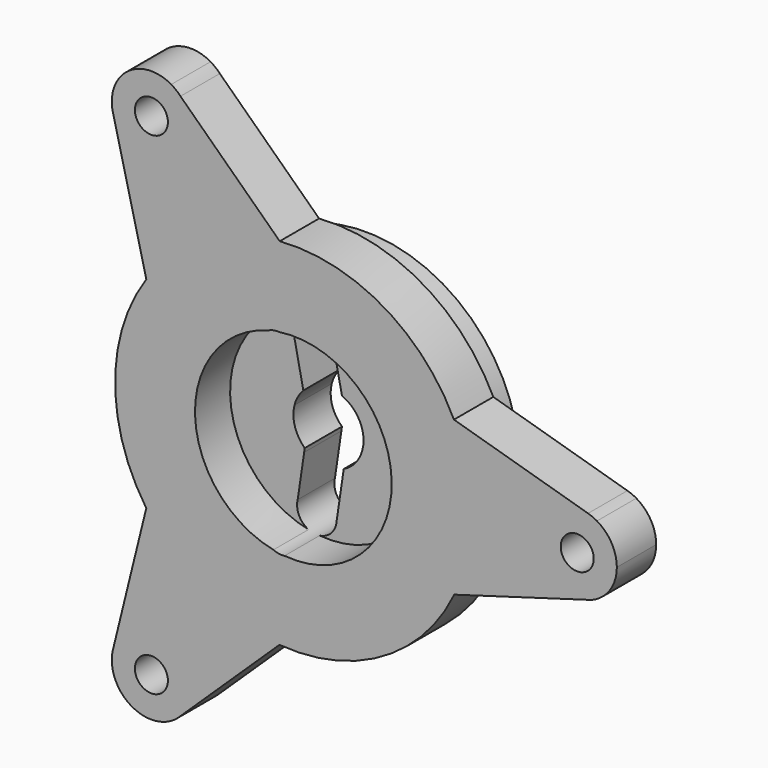
from build123d import *

# Parameters (mm, degrees)
F0_R          = 49
F0_R_2        = 2.5
F1_DEPTH      = 6.7
F1_DEPTH_BACK = 7
F2_R          = 57.85
F2_R_2        = 55.35
F3_DEPTH      = 3
F4_R          = 14.9
F5_DEPTH      = 6.65
F7_DEPTH      = 30.3
F8_R          = 57.307814
F8_R_2        = 23.25
F9_DEPTH      = 6.25


with BuildPart() as f1:
    # F0 (on Front) → F1 (new body, two sides)
    with BuildSketch(Plane.XZ) as f1_sk:
        Circle(F0_R)
        with Locations((-21.5, -37.239092)):
            Circle(F0_R_2, mode=Mode.SUBTRACT)
        with BuildLine():
            ThreePointArc((2.041061, 4.902058), (3.356125, 4.114915), (4.391594, 2.984962))
            ThreePointArc((4.391594, 2.984962), (5.31, 0.000354), (4.391992, -2.984377))
            ThreePointArc((4.391992, -2.984377), (3.469883, -4.019454), (2.311288, -4.780591))
            Line((2.311288, -4.780591), (1.24348, -12.010569))
            ThreePointArc((1.24348, -12.010569), (-2.194471, -14.838607), (-4.660959, -11.132702))
            Line((-4.660959, -11.132702), (-3.683832, -4.516713))
            Line((-3.683832, -4.516713), (-3.594051, -3.908823))
            ThreePointArc((-3.594051, -3.908823), (-5.088714, -1.516936), (-5.147666, 1.302933))
            ThreePointArc((-5.147666, 1.302933), (-4.635012, 2.5909), (-3.806465, 3.702286))
            Line((-3.806465, 3.702286), (-5.274612, 10.855416))
            ThreePointArc((-5.274612, 10.855416), (-3.018653, 14.693117), (0.571674, 12.061227))
            Line((0.571674, 12.061227), (2.041061, 4.902058))
        make_face(mode=Mode.SUBTRACT)
        with Locations((43, 0)):
            Circle(F0_R_2, mode=Mode.SUBTRACT)
        with Locations((-21.5, 37.239092)):
            Circle(F0_R_2, mode=Mode.SUBTRACT)
    extrude(amount=F1_DEPTH)
    extrude(f1_sk.sketch, amount=-F1_DEPTH_BACK)

    # F2 (on face) → F3 (cut)
    with BuildSketch(Plane(origin=(0, 7, 0), x_dir=(-1, 0, 0), z_dir=(0, 1, 0))):
        Circle(F2_R)
        Circle(F2_R_2, mode=Mode.SUBTRACT)
    extrude(amount=-F3_DEPTH, mode=Mode.SUBTRACT)

    # F4 (on face) → F5 (cut)
    with BuildSketch(Plane.XZ.offset(6.7)):
        Circle(F4_R)
    extrude(amount=-F5_DEPTH, mode=Mode.SUBTRACT)

    # F6 (on face) → F7 (cut)
    with BuildSketch(Plane(origin=(0, 7, 0), x_dir=(-1, 0, 0), z_dir=(0, 1, 0))):
        with BuildLine():
            ThreePointArc((-49, 0), (-48.194169, 3.003433), (-45.99313, 5.200113))
            ThreePointArc((-45.99313, 5.200113), (-45.334188, 5.527347), (-44.64015, 5.771474))
            Line((-44.64015, 5.771474), (-24.327876, 11.667113))
            ThreePointArc((-24.327876, 11.667113), (-13.483488, 23.348029), (2.059675, 26.877142))
            Line((2.059675, 26.877142), (17.096325, 41.31434))
            ThreePointArc((17.096325, 41.31434), (17.755977, 41.92762), (18.5, 42.435245))
            ThreePointArc((18.5, 42.435245), (21.5, 43.239092), (24.5, 42.435245))
            ThreePointArc((24.5, 42.435245), (-24.5, 42.435245), (-49, 0))
        make_face()
        with BuildLine():
            ThreePointArc((49, 0), (42.435245, 24.5), (24.5, 42.435245))
            ThreePointArc((24.5, 42.435245), (26.746667, 40.149845), (27.496495, 37.034027))
            ThreePointArc((27.496495, 37.034027), (27.464398, 36.586443), (27.398941, 36.14251))
            ThreePointArc((27.398941, 36.14251), (27.327257, 35.809732), (27.236816, 35.481554))
            Line((27.236816, 35.481554), (22.268012, 15.224597))
            ThreePointArc((22.268012, 15.224597), (26.999999, -0.036464), (22.276739, -15.300227))
            Line((22.276739, -15.300227), (27.300915, -35.706322))
            ThreePointArc((27.300915, -35.706322), (27.435943, -36.364689), (27.496495, -37.034027))
            ThreePointArc((27.496495, -37.034027), (26.746667, -40.149845), (24.5, -42.435245))
            ThreePointArc((24.5, -42.435245), (42.435245, -24.5), (49, 0))
        make_face()
        with BuildLine():
            ThreePointArc((-45.818674, -5.296704), (-48.143542, -3.089333), (-49, 0))
            ThreePointArc((-49, 0), (-24.5, -42.435245), (24.5, -42.435245))
            ThreePointArc((24.5, -42.435245), (21.499855, -43.239092), (18.499749, -42.4351))
            ThreePointArc((18.499749, -42.4351), (17.89788, -42.037502), (17.348075, -41.570549))
            Line((17.348075, -41.570549), (2.111401, -26.9615))
            ThreePointArc((2.111401, -26.9615), (-13.509794, -23.421212), (-24.376516, -11.653896))
            Line((-24.376516, -11.653896), (-44.293281, -5.858961))
            ThreePointArc((-44.293281, -5.858961), (-45.075108, -5.629736), (-45.818674, -5.296704))
        make_face()
    extrude(amount=-F7_DEPTH, mode=Mode.SUBTRACT)

    # F8 (on face) → F9 (cut)
    with BuildSketch(Plane(origin=(0, 7, 0), x_dir=(-1, 0, 0), z_dir=(0, 1, 0))):
        Circle(F8_R)
        Circle(F8_R_2, mode=Mode.SUBTRACT)
        Circle(F8_R)
        Circle(F8_R_2, mode=Mode.SUBTRACT)
    extrude(amount=-F9_DEPTH, mode=Mode.SUBTRACT)


solid = f1.part
